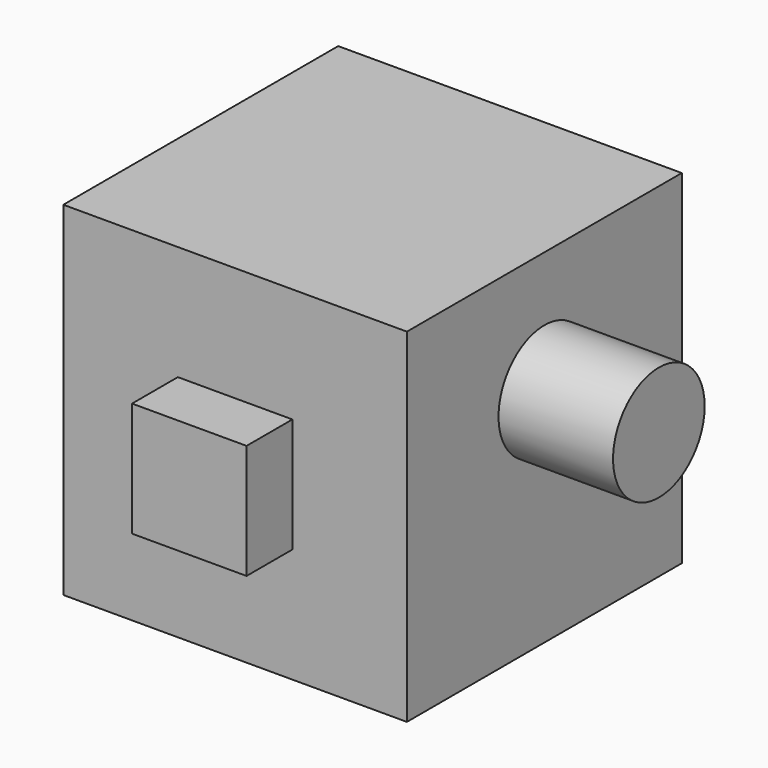
from build123d import *

# Parameters (mm, degrees)
F0_W     = 76.2
F0_H     = 76.2
F1_DEPTH = 76.2
F2_W     = 25.4
F2_H     = 25.4
F3_DEPTH = 12.7
F4_R     = 12.7
F5_DEPTH = 25.4
F6_DEPTH = 25.4


with BuildPart() as f1:
    # F0 (on Front) → F1 (new body)
    with BuildSketch(Plane.XZ):
        with Locations((-25.176713, 26.619935)):
            Rectangle(F0_W, F0_H)
    extrude(amount=F1_DEPTH)

    # F2 (on face) → F3 (join)
    with BuildSketch(Plane.XZ.offset(76.2)):
        with Locations((-25.176713, 26.619935)):
            Rectangle(F2_W, F2_H)
    extrude(amount=F3_DEPTH)

    # F4 (on face) → F5 (join)
    with BuildSketch(Plane.YZ.offset(12.923287)):
        with Locations((-38.1, 37.798271)):
            Circle(F4_R)
    extrude(amount=F5_DEPTH)

    # F4 (on face) → F6 (join)
    with BuildSketch(Plane.YZ.offset(12.923287)):
        with Locations((-38.1, 37.798271)):
            Circle(F4_R)
    extrude(amount=F6_DEPTH)


solid = f1.part
